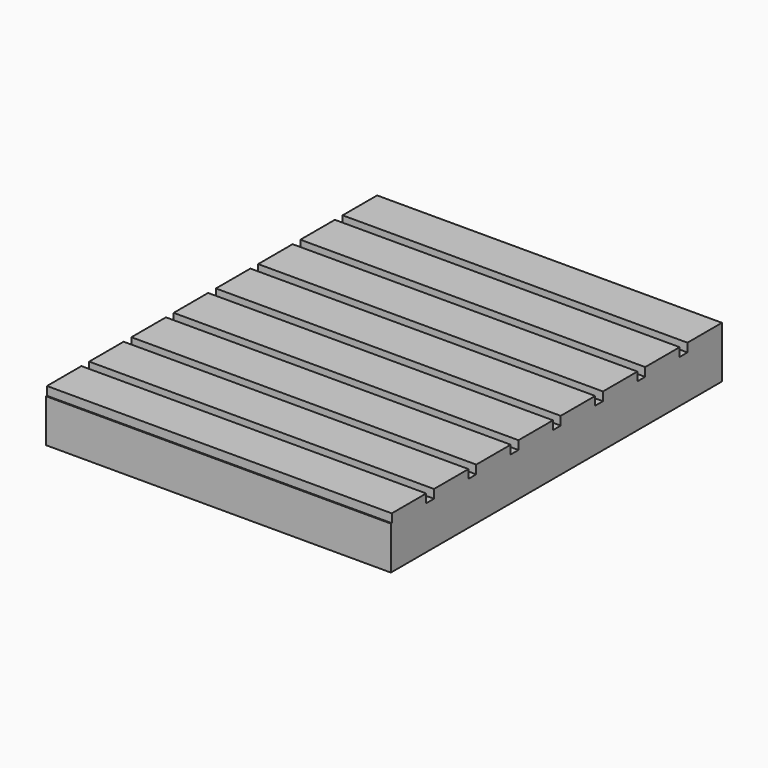
from build123d import *

# Parameters (mm, degrees)
F0_W     = 1016
F0_H     = 1219.2
F1_DEPTH = 127
F2_W     = 1016
F2_H     = 127
F3_DEPTH = 25.4


with BuildPart() as f1:
    # F0 (on Top) → F1 (new body)
    with BuildSketch(Plane.XY):
        Rectangle(F0_W, F0_H)
    extrude(amount=F1_DEPTH)

    # F2 (on face) → F3 (join)
    with BuildSketch(Plane.XY.offset(127)):
        with Locations((0, 546.1)):
            Rectangle(F2_W, F2_H)
        with Locations((0, 390.525)):
            Rectangle(F2_W, F2_H)
        with Locations((0, 234.95)):
            Rectangle(F2_W, F2_H)
        with Locations((0, 79.375)):
            Rectangle(F2_W, F2_H)
        with Locations((0, -76.2)):
            Rectangle(F2_W, F2_H)
        with Locations((0, -231.775)):
            Rectangle(F2_W, F2_H)
        with Locations((0, -387.35)):
            Rectangle(F2_W, F2_H)
        with Locations((0, -542.925)):
            Rectangle(F2_W, F2_H)
    extrude(amount=F3_DEPTH)


solid = f1.part
